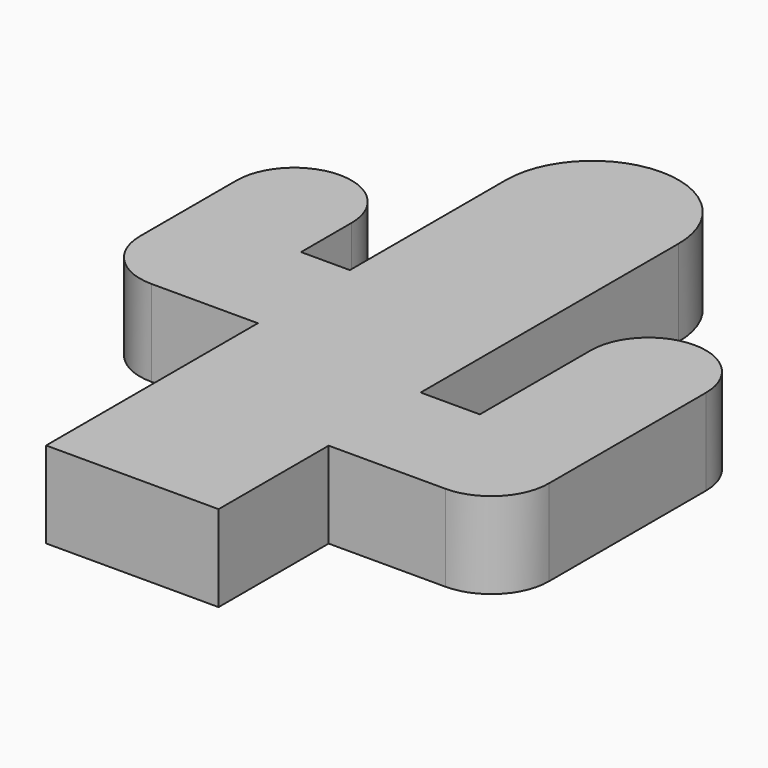
from build123d import *

# Parameters (mm, degrees)
F0_W     = 2.0584103018
F0_H     = 4
F0_W_2   = 1.6980766132
F1_DEPTH = 3
F2_R     = 2


with BuildPart() as f1:
    # F0 (on Top) → F1 (new body)
    with BuildSketch(Plane.XY):
        with BuildLine():
            Line((-3, 0), (3, 0))
            ThreePointArc((3, 0), (0, 3), (-3, 0))
        make_face()
        with BuildLine():
            Line((3, -11.2139971033), (3, 0))
            ThreePointArc((3, 0), (0, -3), (-3, 0))
            Line((-3, 0), (-3, -6.7924109325))
            Line((-3, -6.7924109325), (-3, -10.7924109325))
            Line((-3, -10.7924109325), (-3, -20))
            Line((-3, -20), (3, -20))
            Line((3, -20), (3, -15.2139971033))
            Line((3, -15.2139971033), (3, -11.2139971033))
        make_face()
        with BuildLine():
            ThreePointArc((-3, 0), (0, -3), (3, 0))
            Line((3, 0), (-3, 0))
        make_face()
        with Locations((4.0292051509, -13.2139971033)):
            Rectangle(F0_W, F0_H)
        with Locations((-3.8490383066, -8.7924109325)):
            Rectangle(F0_W_2, F0_H)
        with BuildLine():
            Line((5.0584103018, -6.3864439726), (5.0584103018, -11.2139971033))
            Line((5.0584103018, -11.2139971033), (5.0584103018, -15.2139971033))
            Line((5.0584103018, -15.2139971033), (9.0584103018, -15.2139971033))
            Line((9.0584103018, -15.2139971033), (9.0584103018, -6.3864439726))
            ThreePointArc((9.0584103018, -6.3864439726), (7.0584103018, -8.3864439726), (5.0584103018, -6.3864439726))
        make_face()
        with BuildLine():
            Line((-4.6980766132, -10.7924109325), (-4.6980766132, -6.7924109325))
            Line((-4.6980766132, -6.7924109325), (-4.6980766132, -4.5944773592))
            ThreePointArc((-4.6980766132, -4.5944773592), (-6.6980766132, -6.5944773592), (-8.6980766132, -4.5944773592))
            Line((-8.6980766132, -4.5944773592), (-8.6980766132, -10.7924109325))
            Line((-8.6980766132, -10.7924109325), (-4.6980766132, -10.7924109325))
        make_face()
        with BuildLine():
            ThreePointArc((9.0584103018, -6.3864439726), (7.0584103018, -4.3864439726), (5.0584103018, -6.3864439726))
            Line((5.0584103018, -6.3864439726), (9.0584103018, -6.3864439726))
        make_face()
        with BuildLine():
            Line((9.0584103018, -6.3864439726), (5.0584103018, -6.3864439726))
            ThreePointArc((5.0584103018, -6.3864439726), (7.0584103018, -8.3864439726), (9.0584103018, -6.3864439726))
        make_face()
        with BuildLine():
            ThreePointArc((-8.6980766132, -4.5944773592), (-6.6980766132, -6.5944773592), (-4.6980766132, -4.5944773592))
            Line((-4.6980766132, -4.5944773592), (-8.6980766132, -4.5944773592))
        make_face()
        with BuildLine():
            Line((-8.6980766132, -4.5944773592), (-4.6980766132, -4.5944773592))
            ThreePointArc((-4.6980766132, -4.5944773592), (-6.6980766132, -2.5944773592), (-8.6980766132, -4.5944773592))
        make_face()
    extrude(amount=F1_DEPTH)

    # F2
    f2_edges = [f1.edges().sort_by_distance(p)[0] for p in [
        (-8.698077, -10.792411, 1.5),
        (9.05841, -15.213997, 1.5),
    ]]
    fillet(f2_edges, radius=F2_R)


solid = f1.part
